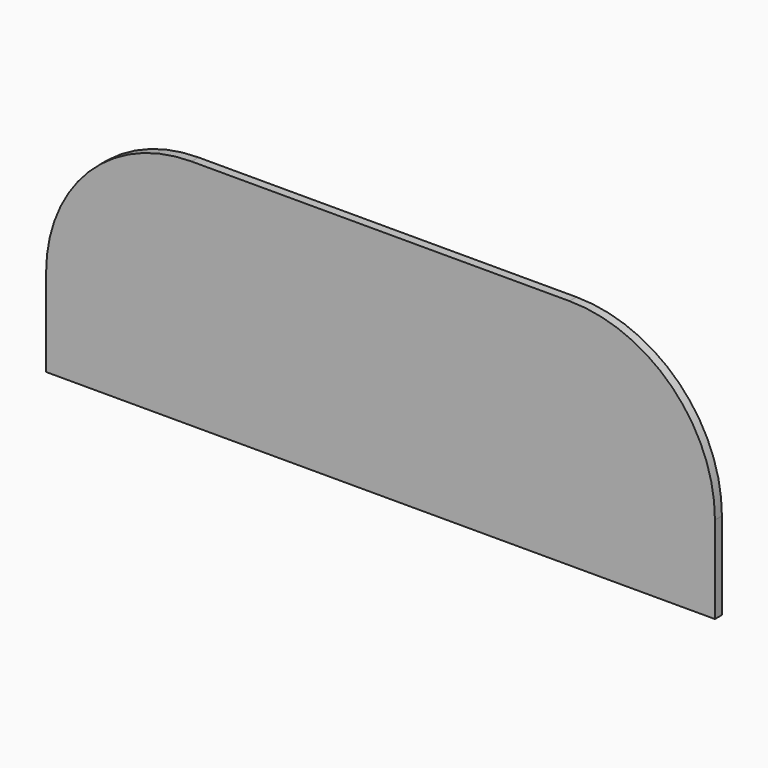
from build123d import *

# Parameters (mm, degrees)
F1_DEPTH = 0.3


with BuildPart() as f1:
    # F0 (on Front) → F1 (new body)
    with BuildSketch(Plane.XZ):
        with BuildLine():
            Line((0, 3), (0, 0))
            Line((0, 0), (23, 0))
            Line((23, 0), (23, 3))
            ThreePointArc((23, 3), (21.535534, 6.535534), (18, 8))
            Line((18, 8), (5, 8))
            ThreePointArc((5, 8), (1.464466, 6.535534), (0, 3))
        make_face()
    extrude(amount=F1_DEPTH)


solid = f1.part
